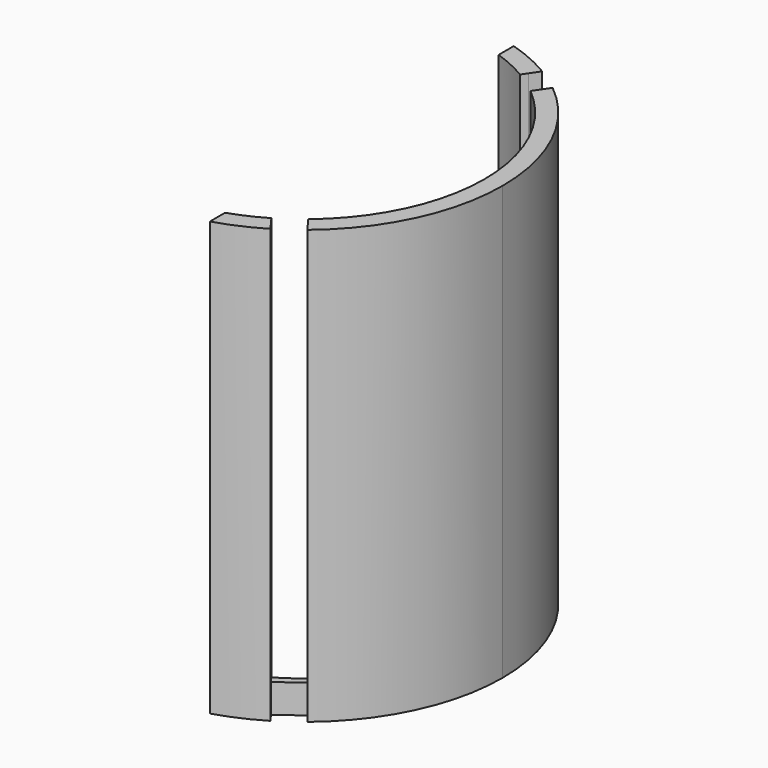
from build123d import *

# Parameters (mm, degrees)
F1_DEPTH = 60
F2_DEPTH = 4


with BuildPart() as f1:
    # F0 (on Top) → F1 (new body)
    with BuildSketch(Plane.XY):
        with BuildLine():
            ThreePointArc((8, 23.6854385647), (10.4057353896, 22.7314907342), (12.6999615998, 21.5339493676))
            Line((12.6999615998, 21.5339493676), (13.2236473386, 22.3057931922))
            Line((13.2236473386, 22.3057931922), (14.1061536293, 23.6064912638))
            ThreePointArc((14.1061536293, 23.6064912638), (11.135466667, 25.1446094046), (8, 26.3106442338))
            Line((8, 26.3106442338), (8, 23.6854385647))
        make_face()
    extrude(amount=F1_DEPTH)


with BuildPart() as f1b:
    # F0 (on Top) → F1, piece 2 (new body)
    with BuildSketch(Plane.XY):
        with BuildLine():
            ThreePointArc((15.9722274119, 19.2324712792), (22.6307941232, 10.6229542667), (25, 0))
            ThreePointArc((25, 0), (22.6308481128, -10.6228392483), (15.9724229044, -19.2323089244))
            Line((15.9724229044, -19.2323089244), (16.5641458304, -20.0384503381))
            Line((16.5641458304, -20.0384503381), (17.4541433848, -21.2509500659))
            ThreePointArc((17.4541433848, -21.2509500659), (24.8620085983, -11.7528944715), (27.5, 0))
            ThreePointArc((27.5, 0), (24.8420158665, 11.7950942212), (17.3818728955, 21.310103112))
            Line((17.3818728955, 21.310103112), (16.5336807988, 20.0599796442))
            Line((16.5336807988, 20.0599796442), (15.9722274119, 19.2324712792))
        make_face()
    extrude(amount=F1_DEPTH)


with BuildPart() as f1c:
    # F0 (on Top) → F1, piece 3 (new body)
    with BuildSketch(Plane.XY):
        with BuildLine():
            Line((13.3395801756, -22.405342042), (12.6999615998, -21.5339493676))
            ThreePointArc((12.6999615998, -21.5339493676), (10.4057353896, -22.7314907342), (8, -23.6854385647))
            Line((8, -23.6854385647), (8, -26.3106442338))
            ThreePointArc((8, -26.3106442338), (11.1780514023, -25.1257072905), (14.18606212, -23.5585577132))
            Line((14.18606212, -23.5585577132), (13.3395801756, -22.405342042))
        make_face()
    extrude(amount=F1_DEPTH)


with BuildPart() as f2:
    # F0 (on Top) → F2 (new body)
    with BuildSketch(Plane.XY):
        with BuildLine():
            Line((16.5641458304, -20.0384503381), (15.9724229044, -19.2323089244))
            ThreePointArc((15.9724229044, -19.2323089244), (14.3823084194, -20.4486968907), (12.6999615998, -21.5339493676))
            Line((12.6999615998, -21.5339493676), (13.3395801756, -22.405342042))
            Line((13.3395801756, -22.405342042), (16.5641458304, -20.0384503381))
        make_face()
    extrude(amount=F2_DEPTH)


with BuildPart() as f2b:
    # F0 (on Top) → F2, piece 2 (new body)
    with BuildSketch(Plane.XY):
        with BuildLine():
            ThreePointArc((12.6999615998, 21.5339493676), (14.3822044912, 20.4487699868), (15.9722274119, 19.2324712792))
            Line((15.9722274119, 19.2324712792), (16.5336807988, 20.0599796442))
            Line((16.5336807988, 20.0599796442), (13.2236473386, 22.3057931922))
            Line((13.2236473386, 22.3057931922), (12.6999615998, 21.5339493676))
        make_face()
    extrude(amount=F2_DEPTH)


solid = Compound([f1.part, f1b.part, f1c.part, f2.part, f2b.part])
